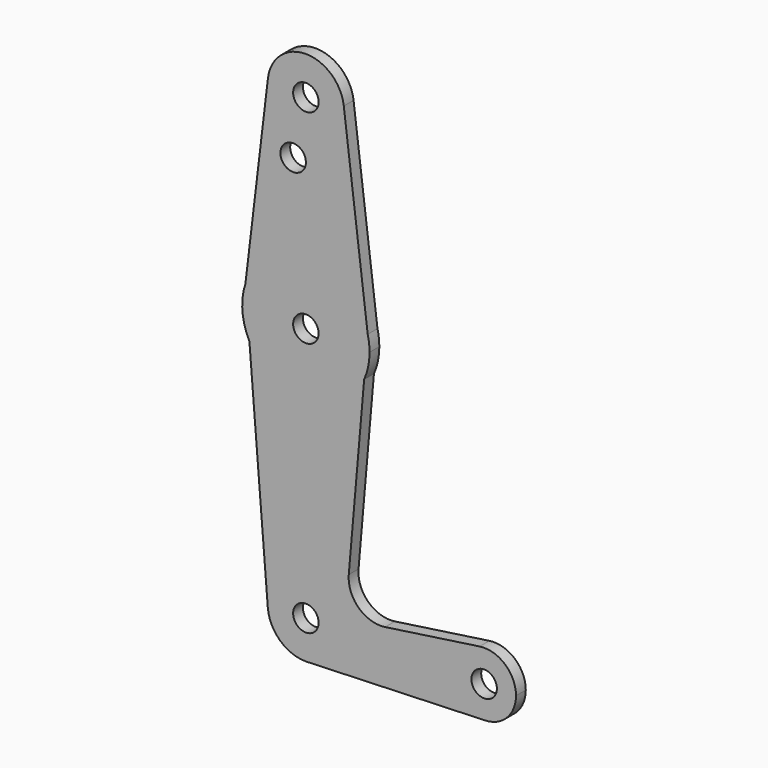
from build123d import *

# Parameters (mm, degrees)
F0_R     = 3.175
F1_DEPTH = 3.048


with BuildPart() as f1:
    # F0 (on Front) → F1 (new body)
    with BuildSketch(Plane.XZ):
        with BuildLine():
            ThreePointArc((-21.8237715262, -66.650885786), (-15.5305583426, -63.6412990883), (-12.9761150741, -57.15))
            ThreePointArc((-12.9761150741, -57.15), (-22.8839220673, -47.6326955599), (-31.9953452696, -57.9149954217))
            ThreePointArc((-31.9953452696, -57.9149954217), (-28.9601801616, -64.150435929), (-22.5011150741, -66.675))
            Line((-22.5011150741, -66.675), (-21.8237715262, -66.650885786))
        make_face()
        with Locations((-22.5011150741, -57.15)):
            Circle(F0_R, mode=Mode.SUBTRACT)
        with BuildLine():
            ThreePointArc((-31.9953452696, -57.9149954217), (-22.8839220673, -47.6326955599), (-12.9761150741, -57.15))
            ThreePointArc((-12.9761150741, -57.15), (-15.5305583426, -63.6412990883), (-21.8237715262, -66.650885786))
            Line((-21.8237715262, -66.650885786), (22.2312902004, -65.0824746146))
            ThreePointArc((22.2312902004, -65.0824746146), (14.0431397612, -57.8592951722), (20.8147594927, -49.2939408256))
            Line((20.8147594927, -49.2939408256), (-2.7526233113, -52.6962023968))
            ThreePointArc((-2.7526233113, -52.6962023968), (-9.3487600305, -50.6061488018), (-11.8088806048, -44.1389121115))
            Line((-11.8088806048, -44.1389121115), (-7.9759088044, -0.0557792518))
            ThreePointArc((-7.9759088044, -0.0557792518), (-21.9889074062, -9.5167346453), (-36.5829285374, -0.9792669883))
            Line((-36.5829285374, -0.9792669883), (-31.9953452696, -57.9149954217))
        make_face()
        with BuildLine():
            ThreePointArc((-22.5011150741, -66.675), (-22.1622287447, -66.6689695375), (-21.8237715262, -66.650885786))
            Line((-21.8237715262, -66.650885786), (-22.5011150741, -66.675))
        make_face()
        with BuildLine():
            Line((-37.5747508137, 11.3300733518), (-36.5829285374, -0.9792669883))
            ThreePointArc((-36.5829285374, -0.9792669883), (-21.9889074062, -9.5167346453), (-7.9759088044, -0.0557792518))
            Line((-7.9759088044, -0.0557792518), (-7.0882940999, 10.1527062227))
            ThreePointArc((-7.0882940999, 10.1527062227), (-21.8884895808, 22.2131748085), (-37.5747508137, 11.3300733518))
        make_face()
        with Locations((-22.5011150741, 6.35)):
            Circle(F0_R, mode=Mode.SUBTRACT)
        with BuildLine():
            ThreePointArc((-37.5747508137, 11.3300733518), (-38.3248320666, 5.0750076304), (-36.5829285374, -0.9792669883))
            Line((-36.5829285374, -0.9792669883), (-37.5747508137, 11.3300733518))
        make_face()
        with BuildLine():
            ThreePointArc((20.8147594927, -49.2939408256), (14.0431397612, -57.8592951722), (22.2312902004, -65.0824746146))
            ThreePointArc((22.2312902004, -65.0824746146), (27.6605177098, -62.6619104847), (29.8863849259, -57.15))
            ThreePointArc((29.8863849259, -57.15), (27.1451232588, -51.1497488854), (20.8147594927, -49.2939408256))
        make_face()
        with Locations((21.9488849259, -57.15)):
            Circle(F0_R, mode=Mode.SUBTRACT)
        with BuildLine():
            Line((-31.9586973362, 58.2812659969), (-37.5747508137, 11.3300733518))
            ThreePointArc((-37.5747508137, 11.3300733518), (-21.8884895808, 22.2131748085), (-7.0882940999, 10.1527062227))
            Line((-7.0882940999, 10.1527062227), (-13.048203223, 58.3196506039))
            ThreePointArc((-13.048203223, 58.3196506039), (-12.9941541932, 57.7359349871), (-12.9761150741, 57.15))
            ThreePointArc((-12.9761150741, 57.15), (-23.0677516215, 47.6418693728), (-31.9586973362, 58.2812659969))
        make_face()
        with Locations((-25.6761150741, 42.8752)):
            Circle(F0_R, mode=Mode.SUBTRACT)
        with BuildLine():
            Line((-7.0882940999, 10.1527062227), (-7.9759088044, -0.0557792518))
            ThreePointArc((-7.9759088044, -0.0557792518), (-6.9672283337, 3.076777164), (-6.6261150741, 6.35))
            ThreePointArc((-6.6261150741, 6.35), (-6.7420834102, 8.265344882), (-7.0882940999, 10.1527062227))
        make_face()
        with BuildLine():
            ThreePointArc((-13.048203223, 58.3196506039), (-22.5204489226, 66.6749803781), (-31.9586973362, 58.2812659969))
            ThreePointArc((-31.9586973362, 58.2812659969), (-23.0677516215, 47.6418693728), (-12.9761150741, 57.15))
            ThreePointArc((-12.9761150741, 57.15), (-12.9941541932, 57.7359349871), (-13.048203223, 58.3196506039))
        make_face()
        with Locations((-22.5011150741, 57.15)):
            Circle(F0_R, mode=Mode.SUBTRACT)
    extrude(amount=F1_DEPTH)


solid = f1.part
